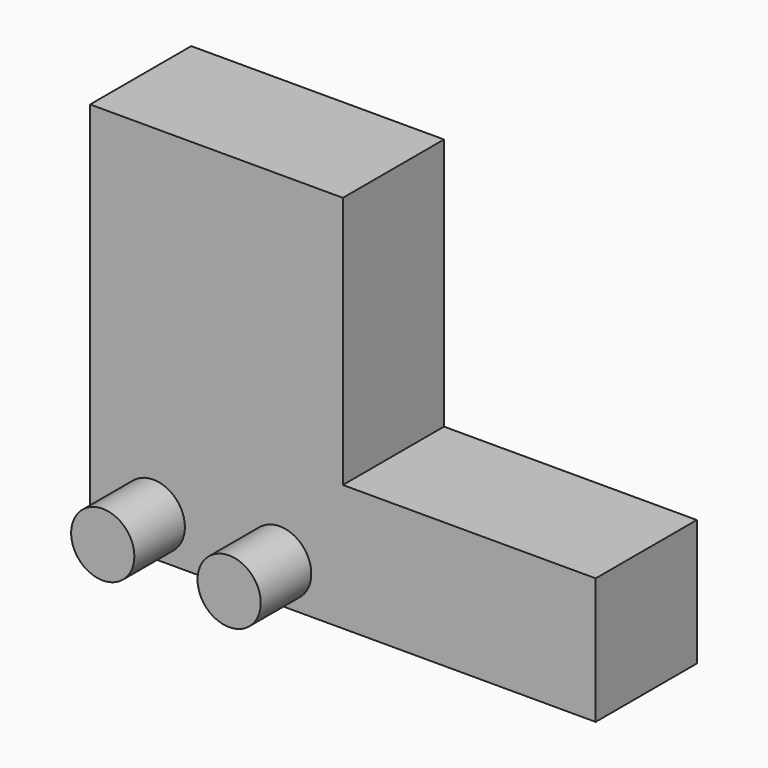
from build123d import *

# Parameters (mm, degrees)
F1_DEPTH = 12.7
F2_R     = 3.175
F3_DEPTH = 6.35


with BuildPart() as f1:
    # F0 (on Front) → F1 (new body)
    with BuildSketch(Plane.XZ):
        Polygon((-50.8, 0), (0, 0), (0, 12.7), (-25.4, 12.7), (-25.4, 38.1), (-50.8, 38.1), align=None)
    extrude(amount=F1_DEPTH)

    # F2 (on face) → F3 (join)
    with BuildSketch(Plane.XZ.offset(12.7)):
        with Locations((-44.45, 3.81)):
            Circle(F2_R)
        with BuildLine():
            ThreePointArc((-28.575, 3.81), (-31.75, 6.985), (-34.925, 3.81))
            ThreePointArc((-34.925, 3.81), (-31.75, 0.635), (-28.575, 3.81))
        make_face()
    extrude(amount=F3_DEPTH)


solid = f1.part
